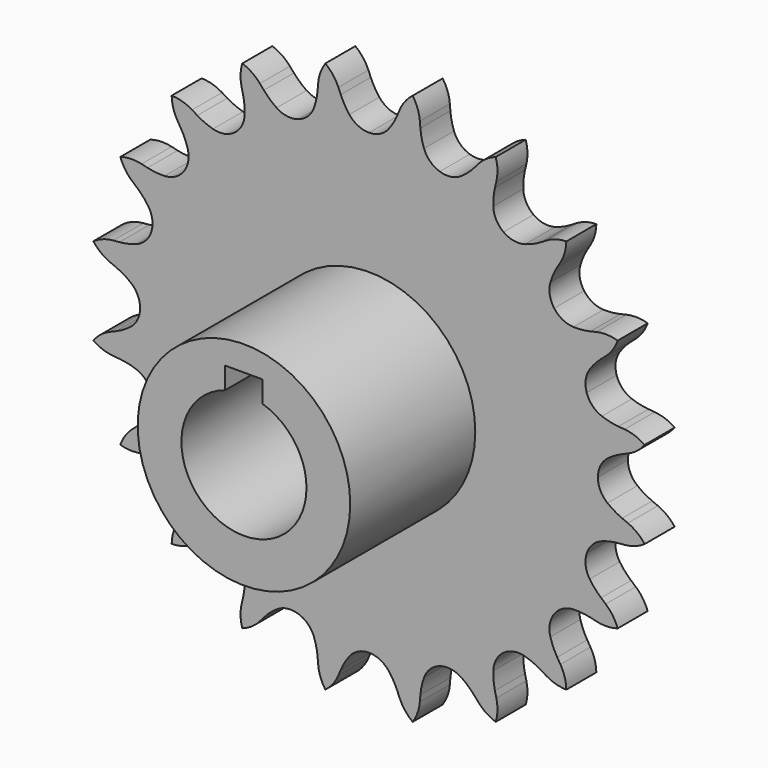
from build123d import *

# Parameters (mm, degrees)
F1_DEPTH = 6
F2_R     = 17
F3_DEPTH = 25
F4_DEPTH = 25


with BuildPart() as f1:
    # F0 (on Front) → F1 (new body)
    with BuildSketch(Plane.XZ):
        with BuildLine():
            ThreePointArc((-3.137307, 38.140967), (-3.905976, 39.272029), (-4.518303, 40.494817))
            Line((-4.518303, 40.494817), (-4.899496, 41.40164))
            ThreePointArc((-4.899496, 41.40164), (-5.764305, 42.881522), (-6.982711, 44.087105))
            ThreePointArc((-6.982711, 44.087105), (-7.768939, 42.564019), (-8.134113, 40.889327))
            Line((-8.134113, 40.889327), (-8.216425, 39.909091))
            ThreePointArc((-8.216425, 39.909091), (-8.42092, 38.556932), (-8.802451, 37.243696))
            ThreePointArc((-8.802451, 37.243696), (-9.778005, 35.741474), (-11.313359, 34.81894))
            ThreePointArc((-11.313359, 34.81894), (-13.097739, 34.662827), (-14.769963, 35.304734))
            ThreePointArc((-14.769963, 35.304734), (-15.850528, 36.142906), (-16.810748, 37.116627))
            Line((-16.810748, 37.116627), (-17.453508, 37.861272))
            ThreePointArc((-17.453508, 37.861272), (-18.733299, 39.001483), (-20.264618, 39.771552))
            ThreePointArc((-20.264618, 39.771552), (-20.541705, 38.080053), (-20.371498, 36.374482))
            Line((-20.371498, 36.374482), (-20.146872, 35.416786))
            ThreePointArc((-20.146872, 35.416786), (-19.923518, 34.067614), (-19.880563, 32.700753))
            ThreePointArc((-19.880563, 32.700753), (-20.344158, 30.970592), (-21.519288, 29.618759))
            ThreePointArc((-21.519288, 29.618759), (-23.168092, 28.918884), (-24.956833, 29.012628))
            ThreePointArc((-24.956833, 29.012628), (-26.243521, 29.475864), (-27.45764, 30.105203))
            Line((-27.45764, 30.105203), (-28.299049, 30.614779))
            ThreePointArc((-28.299049, 30.614779), (-29.868547, 31.303706), (-31.562882, 31.562882))
            ThreePointArc((-31.562882, 31.562882), (-31.303706, 29.868547), (-30.614779, 28.299049))
            Line((-30.614779, 28.299049), (-30.105203, 27.45764))
            ThreePointArc((-30.105203, 27.45764), (-29.475864, 26.243521), (-29.012628, 24.956833))
            ThreePointArc((-29.012628, 24.956833), (-28.918884, 23.168092), (-29.618759, 21.519288))
            ThreePointArc((-29.618759, 21.519288), (-30.970592, 20.344158), (-32.700753, 19.880563))
            ThreePointArc((-32.700753, 19.880563), (-34.067614, 19.923518), (-35.416786, 20.146872))
            Line((-35.416786, 20.146872), (-36.374482, 20.371498))
            ThreePointArc((-36.374482, 20.371498), (-38.080053, 20.541705), (-39.771552, 20.264618))
            ThreePointArc((-39.771552, 20.264618), (-39.001483, 18.733299), (-37.861272, 17.453508))
            Line((-37.861272, 17.453508), (-37.116627, 16.810748))
            ThreePointArc((-37.116627, 16.810748), (-36.142906, 15.850528), (-35.304734, 14.769963))
            ThreePointArc((-35.304734, 14.769963), (-34.662827, 13.097739), (-34.81894, 11.313359))
            ThreePointArc((-34.81894, 11.313359), (-35.741474, 9.778005), (-37.243696, 8.802451))
            ThreePointArc((-37.243696, 8.802451), (-38.556932, 8.42092), (-39.909091, 8.216425))
            Line((-39.909091, 8.216425), (-40.889327, 8.134113))
            ThreePointArc((-40.889327, 8.134113), (-42.564019, 7.768939), (-44.087105, 6.982711))
            ThreePointArc((-44.087105, 6.982711), (-42.881522, 5.764305), (-41.40164, 4.899496))
            Line((-41.40164, 4.899496), (-40.494817, 4.518303))
            ThreePointArc((-40.494817, 4.518303), (-39.272029, 3.905976), (-38.140967, 3.137307))
            ThreePointArc((-38.140967, 3.137307), (-37.013731, 1.745287), (-36.6108, 0))
            ThreePointArc((-36.6108, 0), (-37.013731, -1.745287), (-38.140967, -3.137307))
            ThreePointArc((-38.140967, -3.137307), (-39.272029, -3.905976), (-40.494817, -4.518303))
            Line((-40.494817, -4.518303), (-41.40164, -4.899496))
            ThreePointArc((-41.40164, -4.899496), (-42.881522, -5.764305), (-44.087105, -6.982711))
            ThreePointArc((-44.087105, -6.982711), (-42.564019, -7.768939), (-40.889327, -8.134113))
            Line((-40.889327, -8.134113), (-39.909091, -8.216425))
            ThreePointArc((-39.909091, -8.216425), (-38.556932, -8.42092), (-37.243696, -8.802451))
            ThreePointArc((-37.243696, -8.802451), (-35.741474, -9.778005), (-34.81894, -11.313359))
            ThreePointArc((-34.81894, -11.313359), (-34.662827, -13.097739), (-35.304734, -14.769963))
            ThreePointArc((-35.304734, -14.769963), (-36.142906, -15.850528), (-37.116627, -16.810748))
            Line((-37.116627, -16.810748), (-37.861272, -17.453508))
            ThreePointArc((-37.861272, -17.453508), (-39.001483, -18.733299), (-39.771552, -20.264618))
            ThreePointArc((-39.771552, -20.264618), (-38.080053, -20.541705), (-36.374482, -20.371498))
            Line((-36.374482, -20.371498), (-35.416786, -20.146872))
            ThreePointArc((-35.416786, -20.146872), (-34.067614, -19.923518), (-32.700753, -19.880563))
            ThreePointArc((-32.700753, -19.880563), (-30.970592, -20.344158), (-29.618759, -21.519288))
            ThreePointArc((-29.618759, -21.519288), (-28.918884, -23.168092), (-29.012628, -24.956833))
            ThreePointArc((-29.012628, -24.956833), (-29.475864, -26.243521), (-30.105203, -27.45764))
            Line((-30.105203, -27.45764), (-30.614779, -28.299049))
            ThreePointArc((-30.614779, -28.299049), (-31.303706, -29.868547), (-31.562882, -31.562882))
            ThreePointArc((-31.562882, -31.562882), (-29.868547, -31.303706), (-28.299049, -30.614779))
            Line((-28.299049, -30.614779), (-27.45764, -30.105203))
            ThreePointArc((-27.45764, -30.105203), (-26.243521, -29.475864), (-24.956833, -29.012628))
            ThreePointArc((-24.956833, -29.012628), (-23.168092, -28.918884), (-21.519288, -29.618759))
            ThreePointArc((-21.519288, -29.618759), (-20.344158, -30.970592), (-19.880563, -32.700753))
            ThreePointArc((-19.880563, -32.700753), (-19.923518, -34.067614), (-20.146872, -35.416786))
            Line((-20.146872, -35.416786), (-20.371498, -36.374482))
            ThreePointArc((-20.371498, -36.374482), (-20.541705, -38.080053), (-20.264618, -39.771552))
            ThreePointArc((-20.264618, -39.771552), (-18.733299, -39.001483), (-17.453508, -37.861272))
            Line((-17.453508, -37.861272), (-16.810748, -37.116627))
            ThreePointArc((-16.810748, -37.116627), (-15.850528, -36.142906), (-14.769963, -35.304734))
            ThreePointArc((-14.769963, -35.304734), (-13.097739, -34.662827), (-11.313359, -34.81894))
            ThreePointArc((-11.313359, -34.81894), (-9.778005, -35.741474), (-8.802451, -37.243696))
            ThreePointArc((-8.802451, -37.243696), (-8.42092, -38.556932), (-8.216425, -39.909091))
            Line((-8.216425, -39.909091), (-8.134113, -40.889327))
            ThreePointArc((-8.134113, -40.889327), (-7.768939, -42.564019), (-6.982711, -44.087105))
            ThreePointArc((-6.982711, -44.087105), (-5.764305, -42.881522), (-4.899496, -41.40164))
            Line((-4.899496, -41.40164), (-4.518303, -40.494817))
            ThreePointArc((-4.518303, -40.494817), (-3.905976, -39.272029), (-3.137307, -38.140967))
            ThreePointArc((-3.137307, -38.140967), (-1.745287, -37.013731), (0, -36.6108))
            ThreePointArc((0, -36.6108), (1.745287, -37.013731), (3.137307, -38.140967))
            ThreePointArc((3.137307, -38.140967), (3.905976, -39.272029), (4.518303, -40.494817))
            Line((4.518303, -40.494817), (4.899496, -41.40164))
            ThreePointArc((4.899496, -41.40164), (5.764305, -42.881522), (6.982711, -44.087105))
            ThreePointArc((6.982711, -44.087105), (7.768939, -42.564019), (8.134113, -40.889327))
            Line((8.134113, -40.889327), (8.216425, -39.909091))
            ThreePointArc((8.216425, -39.909091), (8.42092, -38.556932), (8.802451, -37.243696))
            ThreePointArc((8.802451, -37.243696), (9.778005, -35.741474), (11.313359, -34.81894))
            ThreePointArc((11.313359, -34.81894), (13.097739, -34.662827), (14.769963, -35.304734))
            ThreePointArc((14.769963, -35.304734), (15.850528, -36.142906), (16.810748, -37.116627))
            Line((16.810748, -37.116627), (17.453508, -37.861272))
            ThreePointArc((17.453508, -37.861272), (18.733299, -39.001483), (20.264618, -39.771552))
            ThreePointArc((20.264618, -39.771552), (20.541705, -38.080053), (20.371498, -36.374482))
            Line((20.371498, -36.374482), (20.146872, -35.416786))
            ThreePointArc((20.146872, -35.416786), (19.923518, -34.067614), (19.880563, -32.700753))
            ThreePointArc((19.880563, -32.700753), (20.344158, -30.970592), (21.519288, -29.618759))
            ThreePointArc((21.519288, -29.618759), (23.168092, -28.918884), (24.956833, -29.012628))
            ThreePointArc((24.956833, -29.012628), (26.243521, -29.475864), (27.45764, -30.105203))
            Line((27.45764, -30.105203), (28.299049, -30.614779))
            ThreePointArc((28.299049, -30.614779), (29.868547, -31.303706), (31.562882, -31.562882))
            ThreePointArc((31.562882, -31.562882), (31.303706, -29.868547), (30.614779, -28.299049))
            Line((30.614779, -28.299049), (30.105203, -27.45764))
            ThreePointArc((30.105203, -27.45764), (29.475864, -26.243521), (29.012628, -24.956833))
            ThreePointArc((29.012628, -24.956833), (28.918884, -23.168092), (29.618759, -21.519288))
            ThreePointArc((29.618759, -21.519288), (30.970592, -20.344158), (32.700753, -19.880563))
            ThreePointArc((32.700753, -19.880563), (34.067614, -19.923518), (35.416786, -20.146872))
            Line((35.416786, -20.146872), (36.374482, -20.371498))
            ThreePointArc((36.374482, -20.371498), (38.080053, -20.541705), (39.771552, -20.264618))
            ThreePointArc((39.771552, -20.264618), (39.001483, -18.733299), (37.861272, -17.453508))
            Line((37.861272, -17.453508), (37.116627, -16.810748))
            ThreePointArc((37.116627, -16.810748), (36.142906, -15.850528), (35.304734, -14.769963))
            ThreePointArc((35.304734, -14.769963), (34.662827, -13.097739), (34.81894, -11.313359))
            ThreePointArc((34.81894, -11.313359), (35.741474, -9.778005), (37.243696, -8.802451))
            ThreePointArc((37.243696, -8.802451), (38.556932, -8.42092), (39.909091, -8.216425))
            Line((39.909091, -8.216425), (40.889327, -8.134113))
            ThreePointArc((40.889327, -8.134113), (42.564019, -7.768939), (44.087105, -6.982711))
            ThreePointArc((44.087105, -6.982711), (42.881522, -5.764305), (41.40164, -4.899496))
            Line((41.40164, -4.899496), (40.494817, -4.518303))
            ThreePointArc((40.494817, -4.518303), (39.272029, -3.905976), (38.140967, -3.137307))
            ThreePointArc((38.140967, -3.137307), (37.013731, -1.745287), (36.6108, 0))
            ThreePointArc((36.6108, 0), (37.013731, 1.745287), (38.140967, 3.137307))
            ThreePointArc((38.140967, 3.137307), (39.272029, 3.905976), (40.494817, 4.518303))
            Line((40.494817, 4.518303), (41.40164, 4.899496))
            ThreePointArc((41.40164, 4.899496), (42.881522, 5.764305), (44.087105, 6.982711))
            ThreePointArc((44.087105, 6.982711), (42.564019, 7.768939), (40.889327, 8.134113))
            Line((40.889327, 8.134113), (39.909091, 8.216425))
            ThreePointArc((39.909091, 8.216425), (38.556932, 8.42092), (37.243696, 8.802451))
            ThreePointArc((37.243696, 8.802451), (35.741474, 9.778005), (34.81894, 11.313359))
            ThreePointArc((34.81894, 11.313359), (34.662827, 13.097739), (35.304734, 14.769963))
            ThreePointArc((35.304734, 14.769963), (36.142906, 15.850528), (37.116627, 16.810748))
            Line((37.116627, 16.810748), (37.861272, 17.453508))
            ThreePointArc((37.861272, 17.453508), (39.001483, 18.733299), (39.771552, 20.264618))
            ThreePointArc((39.771552, 20.264618), (38.080053, 20.541705), (36.374482, 20.371498))
            Line((36.374482, 20.371498), (35.416786, 20.146872))
            ThreePointArc((35.416786, 20.146872), (34.067614, 19.923518), (32.700753, 19.880563))
            ThreePointArc((32.700753, 19.880563), (30.970592, 20.344158), (29.618759, 21.519288))
            ThreePointArc((29.618759, 21.519288), (28.918884, 23.168092), (29.012628, 24.956833))
            ThreePointArc((29.012628, 24.956833), (29.475864, 26.243521), (30.105203, 27.45764))
            Line((30.105203, 27.45764), (30.614779, 28.299049))
            ThreePointArc((30.614779, 28.299049), (31.303706, 29.868547), (31.562882, 31.562882))
            ThreePointArc((31.562882, 31.562882), (29.868547, 31.303706), (28.299049, 30.614779))
            Line((28.299049, 30.614779), (27.45764, 30.105203))
            ThreePointArc((27.45764, 30.105203), (26.243521, 29.475864), (24.956833, 29.012628))
            ThreePointArc((24.956833, 29.012628), (23.168092, 28.918884), (21.519288, 29.618759))
            ThreePointArc((21.519288, 29.618759), (20.344158, 30.970592), (19.880563, 32.700753))
            ThreePointArc((19.880563, 32.700753), (19.923518, 34.067614), (20.146872, 35.416786))
            Line((20.146872, 35.416786), (20.371498, 36.374482))
            ThreePointArc((20.371498, 36.374482), (20.541705, 38.080053), (20.264618, 39.771552))
            ThreePointArc((20.264618, 39.771552), (18.733299, 39.001483), (17.453508, 37.861272))
            Line((17.453508, 37.861272), (16.810748, 37.116627))
            ThreePointArc((16.810748, 37.116627), (15.850528, 36.142906), (14.769963, 35.304734))
            ThreePointArc((14.769963, 35.304734), (13.097739, 34.662827), (11.313359, 34.81894))
            ThreePointArc((11.313359, 34.81894), (9.778005, 35.741474), (8.802451, 37.243696))
            ThreePointArc((8.802451, 37.243696), (8.42092, 38.556932), (8.216425, 39.909091))
            Line((8.216425, 39.909091), (8.134113, 40.889327))
            ThreePointArc((8.134113, 40.889327), (7.768939, 42.564019), (6.982711, 44.087105))
            ThreePointArc((6.982711, 44.087105), (5.764305, 42.881522), (4.899496, 41.40164))
            Line((4.899496, 41.40164), (4.518303, 40.494817))
            ThreePointArc((4.518303, 40.494817), (3.905976, 39.272029), (3.137307, 38.140967))
            ThreePointArc((3.137307, 38.140967), (1.745287, 37.013731), (0, 36.6108))
            ThreePointArc((0, 36.6108), (-1.745287, 37.013731), (-3.137307, 38.140967))
        make_face()
    extrude(amount=-F1_DEPTH)

    # F2 (on Front) → F3 (join)
    with BuildSketch(Plane.XZ):
        Circle(F2_R)
        with BuildLine():
            ThreePointArc((3, 9.539392), (8.062258, 5.91608), (10, 0))
            ThreePointArc((10, 0), (-5.91608, -8.062258), (-3, 9.539392))
            Line((-3, 9.539392), (-3, 13))
            Line((-3, 13), (3, 13))
            Line((3, 13), (3, 9.539392))
        make_face(mode=Mode.SUBTRACT)
    extrude(amount=F3_DEPTH)

    # F3_face (on face) → F4 (cut)
    with BuildSketch(Plane(origin=(0, 0, 0.648509), x_dir=(1, 0, 0), z_dir=(0, -1, 0))):
        with BuildLine():
            Line((3, 8.890883), (3, 12.351491))
            Line((3, 12.351491), (-3, 12.351491))
            Line((-3, 12.351491), (-3, 8.890883))
            ThreePointArc((-3, 8.890883), (0, -10.648509), (3, 8.890883))
        make_face()
    extrude(amount=-F4_DEPTH, mode=Mode.SUBTRACT)


solid = f1.part
